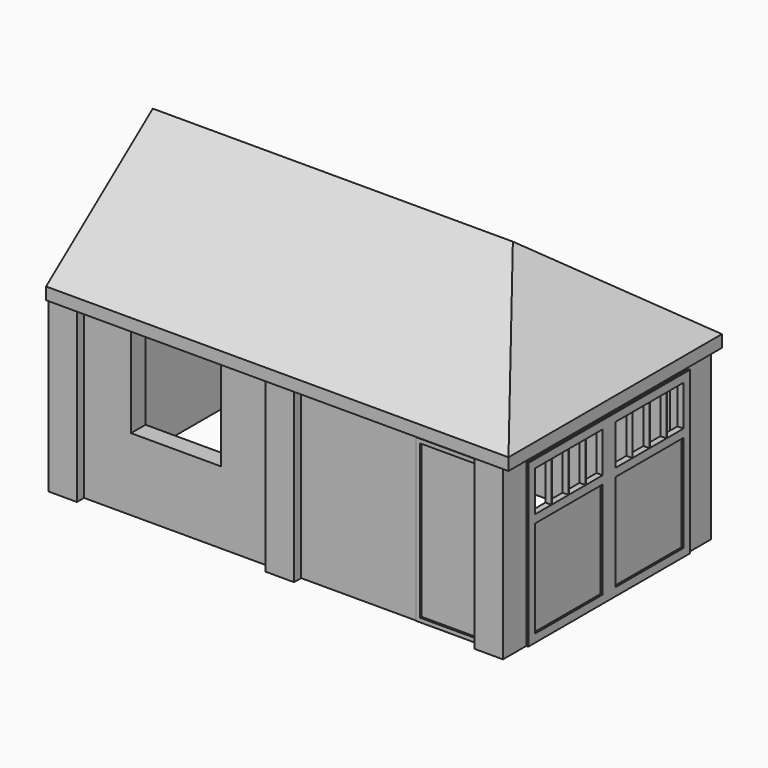
from build123d import *

# Parameters (mm, degrees)
F0_W           = 5620
F0_H           = 3000
F0_W_2         = 5170
F0_H_2         = 2550
F1_DEPTH       = 2200
F2_W           = 2500
F2_H           = 2000
F3_DEPTH       = 225
F4_W           = 1116
F4_H           = 1106
F4_W_2         = 800
F4_H_2         = 2000
F5_DEPTH       = 225
F7_W           = 800
F7_H           = 2000
F7_W_2         = 700
F7_H_2         = 1900
F8_DEPTH       = 30
F9_DEPTH       = 5
F11_DEPTH      = 5620
F11_DEPTH_BACK = 100
F12_DEPTH      = 100
F14_DEPTH      = 6760
F15_W          = 350
F15_H          = 110
F16_DEPTH      = 2100
F17_W          = 1249
F17_H          = 2000
F17_W_2        = 1049
F17_H_2        = 1200
F17_W_3        = 258.5
F17_H_3        = 500
F17_W_4        = 2
F18_DEPTH      = 50
F18_DEPTH_BACK = 25
F19_DEPTH      = 25


with BuildPart() as f1:
    # F0 (on Top) → F1 (new body)
    with BuildSketch(Plane.XY):
        with Locations((2810, 1500)):
            Rectangle(F0_W, F0_H)
        with Locations((2810, 1500)):
            Rectangle(F0_W_2, F0_H_2, mode=Mode.SUBTRACT)
    extrude(amount=F1_DEPTH)

    # F2 (on face) → F3 (cut, through all)
    with BuildSketch(Plane.YZ.offset(5620)):
        with Locations((1500, 1000)):
            Rectangle(F2_W, F2_H)
    extrude(amount=-F3_DEPTH, mode=Mode.SUBTRACT)

    # F4 (on face) → F5 (cut, through all)
    with BuildSketch(Plane.XZ):
        with Locations((1488, 1447)):
            Rectangle(F4_W, F4_H)
        with Locations((4860, 1000)):
            Rectangle(F4_W_2, F4_H_2)
    extrude(amount=-F5_DEPTH, mode=Mode.SUBTRACT)

    # F10 (on face) → F11 (join, two sides)
    with BuildSketch(Plane.YZ.offset(5620)) as f11_sk:
        Polygon((-150, 2100), (0, 2100), (0, 2200), (3000, 2200), (3000, 2100), (3150, 2100), (3150, 2250), (1500, 3516.0895301653), (-150, 2250), align=None)
    extrude(amount=-F11_DEPTH)
    extrude(f11_sk.sketch, amount=F11_DEPTH_BACK)

    # F12 (add, through all): a face of the model
    f12_faces = [f1.faces().sort_by_distance(p)[0] for p in [
        (5670, 1500, 2200),
    ]]
    extrude(f12_faces, amount=F12_DEPTH)

    # F13 (on face) → F14 (cut)
    with BuildSketch(Plane.XZ.offset(150)):
        Polygon((3720, 4250), (5720, 2250), (5720, 4250), align=None)
    extrude(amount=-F14_DEPTH, mode=Mode.SUBTRACT)

    # F15 (on face) → F16 (join, through all)
    with BuildSketch(Plane(origin=(0, 0, 0), x_dir=(1, 0, 0), z_dir=(0, 0, -1))):
        with Locations((175, 55)):
            Rectangle(F15_W, F15_H)
        with Locations((2860, 55)):
            Rectangle(F15_W, F15_H)
        with Locations((5445, 55)):
            Rectangle(F15_W, F15_H)
        with Locations((175, -3055)):
            Rectangle(F15_W, F15_H)
        with Locations((2860, -3055)):
            Rectangle(F15_W, F15_H)
        with Locations((5445, -3055)):
            Rectangle(F15_W, F15_H)
    extrude(amount=-F16_DEPTH)


with BuildPart() as f8:
    # F7 (on offset) → F8 (new body)
    with BuildSketch(Plane.XZ.offset(-25)):
        with Locations((4860, 1000)):
            Rectangle(F7_W, F7_H)
        with Locations((4860, 1000)):
            Rectangle(F7_W_2, F7_H_2, mode=Mode.SUBTRACT)
    extrude(amount=F8_DEPTH)

    # F7 (on offset) → F9 (join)
    with BuildSketch(Plane.XZ.offset(-25)):
        with Locations((4860, 1000)):
            Rectangle(F7_W_2, F7_H_2)
    extrude(amount=F9_DEPTH)


with BuildPart() as f18:
    # F17 (on face) → F18 (new body, two sides)
    with BuildSketch(Plane.YZ.offset(5620)) as f18_sk:
        with Locations((874.5, 1000)):
            Rectangle(F17_W, F17_H)
        with Locations((874.5, 700)):
            Rectangle(F17_W_2, F17_H_2, mode=Mode.SUBTRACT)
        with Locations((479.25, 1650)):
            Rectangle(F17_W_3, F17_H_3, mode=Mode.SUBTRACT)
        with Locations((742.75, 1650)):
            Rectangle(F17_W_3, F17_H_3, mode=Mode.SUBTRACT)
        with Locations((1006.25, 1650)):
            Rectangle(F17_W_3, F17_H_3, mode=Mode.SUBTRACT)
        with Locations((1269.75, 1650)):
            Rectangle(F17_W_3, F17_H_3, mode=Mode.SUBTRACT)
        with Locations((1500, 1000)):
            Rectangle(F17_W_4, F17_H)
        with Locations((2125.5, 1000)):
            Rectangle(F17_W, F17_H)
        with Locations((2125.5, 700)):
            Rectangle(F17_W_2, F17_H_2, mode=Mode.SUBTRACT)
        with Locations((1730.25, 1650)):
            Rectangle(F17_W_3, F17_H_3, mode=Mode.SUBTRACT)
        with Locations((1993.75, 1650)):
            Rectangle(F17_W_3, F17_H_3, mode=Mode.SUBTRACT)
        with Locations((2257.25, 1650)):
            Rectangle(F17_W_3, F17_H_3, mode=Mode.SUBTRACT)
        with Locations((2520.75, 1650)):
            Rectangle(F17_W_3, F17_H_3, mode=Mode.SUBTRACT)
    extrude(amount=-F18_DEPTH)
    extrude(f18_sk.sketch, amount=F18_DEPTH_BACK)

    # F17 (on face) → F19 (join)
    with BuildSketch(Plane.YZ.offset(5620)):
        with Locations((874.5, 700)):
            Rectangle(F17_W_2, F17_H_2)
        with Locations((2125.5, 700)):
            Rectangle(F17_W_2, F17_H_2)
    extrude(amount=-F19_DEPTH)


solid = Compound([f1.part, f8.part, f18.part])
